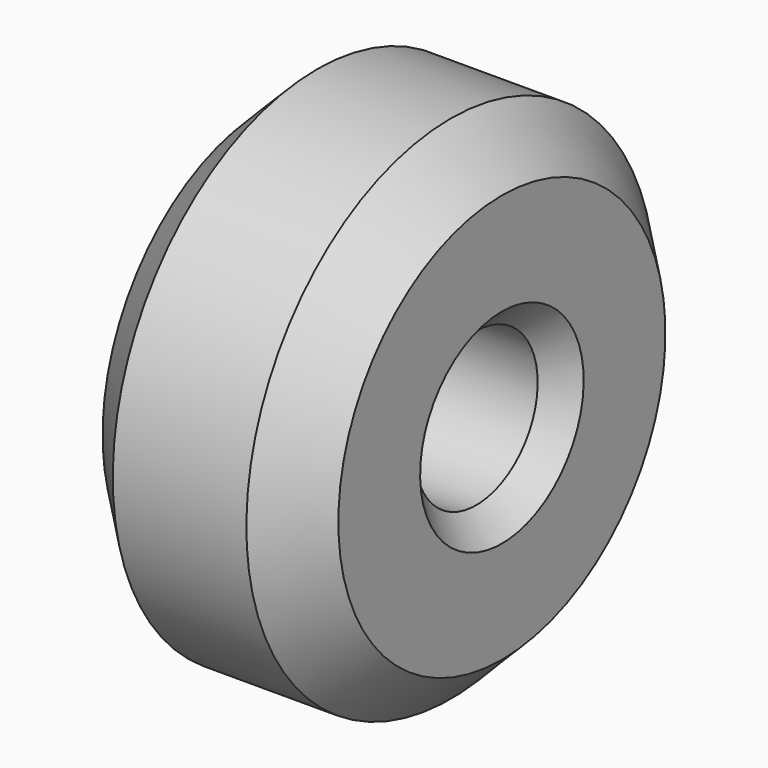
from build123d import *

# Parameters (mm, degrees)
F0_W    = 9.227068
F0_H    = 7
F2_SIZE = 2
F3_SIZE = 1


with BuildPart() as f1:
    # F0 (on Front) → F1 (revolve)
    with BuildSketch(Plane.XZ):
        with Locations((0, 6.5)):
            Rectangle(F0_W, F0_H)
    revolve(axis=Axis((0.183192, 0, 0), (1, 0, 0)))

    # F2
    f2_edges = [f1.edges().sort_by_distance(p)[0] for p in [
        (-4.613534, 0, -10),
        (4.613534, 0, -10),
    ]]
    chamfer(f2_edges, length=F2_SIZE)

    # F3
    f3_edges = [f1.edges().sort_by_distance(p)[0] for p in [
        (4.613534, 0, -3),
    ]]
    chamfer(f3_edges, length=F3_SIZE)


solid = f1.part
